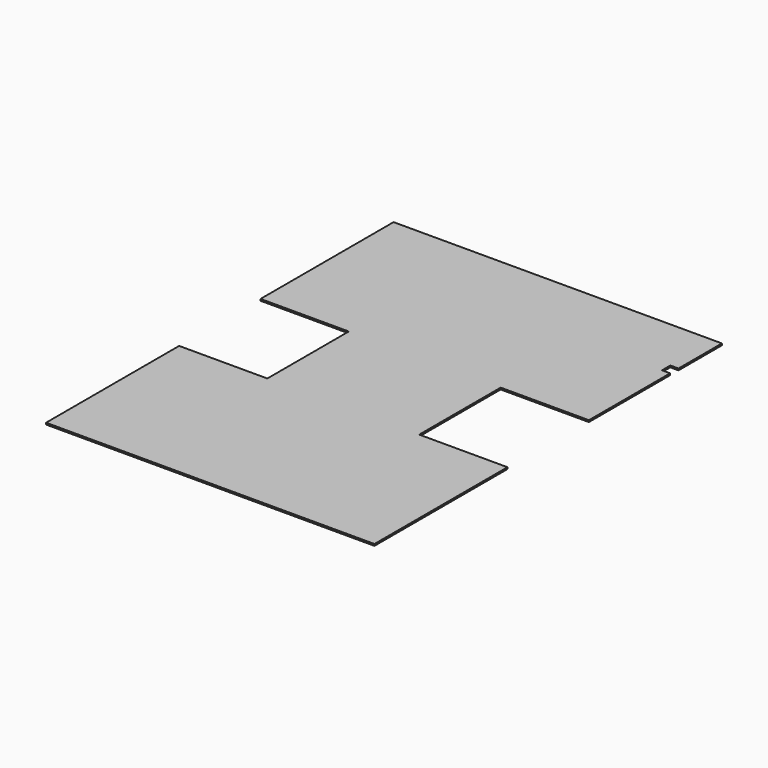
from build123d import *

# Parameters (mm, degrees)
F0_W     = 284.226
F0_H     = 190.5
F1_DEPTH = 3.175


with BuildPart() as f1:
    # F0 (on Top) → F1 (new body)
    with BuildSketch(Plane.XY):
        Polygon((307.213, 53.975), (307.213, 155.575), (-307.213, 155.575), (-307.213, -155.575), (-142.113, -155.575), (142.113, -155.575), (307.213, -155.575), (307.213, 34.47796), (291.973, 34.47796), (291.973, 53.975), align=None)
        with Locations((0, -250.825)):
            Rectangle(F0_W, F0_H)
        Polygon((142.113, -346.075), (-142.113, -346.075), (-307.213, -346.075), (-307.213, -657.225), (307.213, -657.225), (307.213, -346.075), align=None)
    extrude(amount=F1_DEPTH)


solid = f1.part
